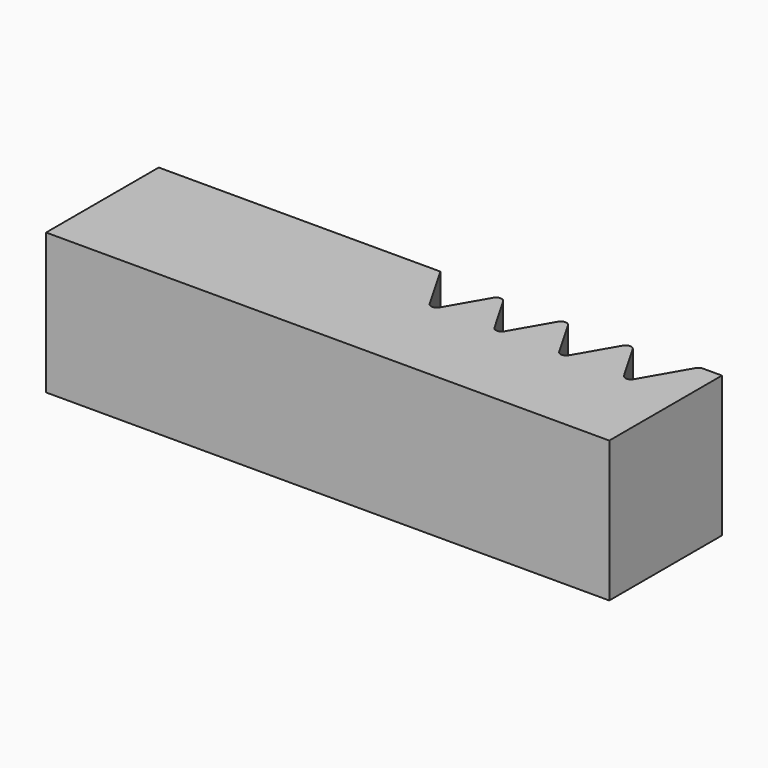
from build123d import *

# Parameters (mm, degrees)
F0_W     = 25.4
F0_H     = 6.35
F1_DEPTH = 6.35
F3_DEPTH = 25.4
F4_R     = 0.254
F5_R     = 0.254


with BuildPart() as f1:
    # F0 (on Top) → F1 (new body)
    with BuildSketch(Plane.XY):
        with Locations((12.7, 3.175)):
            Rectangle(F0_W, F0_H)
    extrude(amount=F1_DEPTH)

    # F2 (on face) → F3 (cut)
    with BuildSketch(Plane.XY.offset(6.35)):
        Polygon((15.621, 6.35), (12.7, 6.35), (14.1664696837, 3.81), (15.6269696837, 6.3396602045), align=None)
        Polygon((15.6329393675, 6.35), (15.621, 6.35), (15.6269696837, 6.3396602045), align=None)
        Polygon((15.6329393675, 6.35), (15.6269696837, 6.3396602045), (17.0874696837, 3.81), (18.5479696837, 6.3396602045), (18.542, 6.35), align=None)
        Polygon((18.5539393675, 6.35), (18.542, 6.35), (18.5479696837, 6.3396602045), align=None)
        Polygon((18.5539393675, 6.35), (18.5479696837, 6.3396602045), (20.0084696837, 3.81), (21.4689696837, 6.3396602045), (21.463, 6.35), align=None)
        Polygon((21.4749393675, 6.35), (21.463, 6.35), (21.4689696837, 6.3396602045), align=None)
        Polygon((21.4749393675, 6.35), (21.4689696837, 6.3396602045), (22.9294696837, 3.81), (24.3959393675, 6.35), align=None)
    extrude(amount=-F3_DEPTH, mode=Mode.SUBTRACT)

    # F4
    f4_edges = [f1.edges().sort_by_distance(p)[0] for p in [
        (21.46897, 6.33966, 3.175),
    ]]
    fillet(f4_edges, radius=F4_R)

    # F5
    f5_edges = [f1.edges().sort_by_distance(p)[0] for p in [
        (24.395939, 6.35, 3.175),
        (22.92947, 3.81, 3.175),
        (20.00847, 3.81, 3.175),
        (18.54797, 6.33966, 3.175),
        (17.08747, 3.81, 3.175),
        (15.62697, 6.33966, 3.175),
        (14.16647, 3.81, 3.175),
    ]]
    fillet(f5_edges, radius=F5_R)


solid = f1.part
